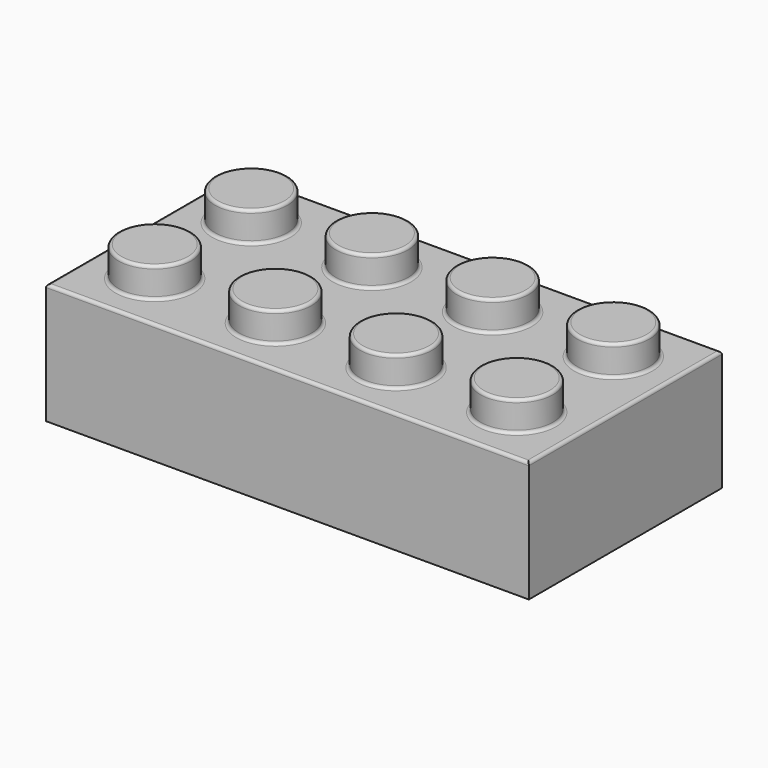
from build123d import *

# Parameters (mm, degrees)
F0_W     = 160
F0_H     = 80
F1_DEPTH = 40
F2_W     = 144
F2_H     = 64
F3_DEPTH = 30
F4_R     = 12
F5_DEPTH = 10
F6_R     = 1


with BuildPart() as f1:
    # F0 (on Top) → F1 (new body)
    with BuildSketch(Plane.XY):
        with Locations((-1.328124, -3.203125)):
            Rectangle(F0_W, F0_H)
    extrude(amount=F1_DEPTH)

    # F2 (on face) → F3 (cut)
    with BuildSketch(Plane(origin=(0, 0, 0), x_dir=(1, 0, 0), z_dir=(0, 0, -1))):
        with Locations((-1.328124, 3.203125)):
            Rectangle(F2_W, F2_H)
    extrude(amount=-F3_DEPTH, mode=Mode.SUBTRACT)

    # F4 (on face) → F5 (join)
    with BuildSketch(Plane.XY.offset(40)):
        with Locations((-61.328124, 16.796875)):
            Circle(F4_R)
        with Locations((-61.328124, -23.203125)):
            Circle(F4_R)
        with Locations((-21.328124, 16.796875)):
            Circle(F4_R)
        with Locations((-21.328124, -23.203125)):
            Circle(F4_R)
        with Locations((18.671876, 16.796875)):
            Circle(F4_R)
        with Locations((18.671876, -23.203125)):
            Circle(F4_R)
        with Locations((58.671876, 16.796875)):
            Circle(F4_R)
        with Locations((58.671876, -23.203125)):
            Circle(F4_R)
    extrude(amount=F5_DEPTH)

    # F6
    f6_edges = [f1.edges().sort_by_distance(p)[0] for p in [
        (-73.328124, 16.796875, 50),
        (-33.328124, 16.796875, 50),
        (6.671876, 16.796875, 50),
        (46.671876, 16.796875, 50),
        (46.671876, -23.203125, 50),
        (6.671876, -23.203125, 50),
        (-33.328124, -23.203125, 50),
        (-73.328124, -23.203125, 50),
        (-1.328124, 36.796875, 40),
        (78.671876, -3.203125, 40),
        (-81.328124, -3.203125, 40),
        (-1.328124, -43.203125, 40),
        (-73.328124, -23.203125, 40),
        (-33.328124, -23.203125, 40),
        (6.671876, -23.203125, 40),
        (46.671876, -23.203125, 40),
        (-73.328124, 16.796875, 40),
        (-33.328124, 16.796875, 40),
        (6.671876, 16.796875, 40),
        (46.671876, 16.796875, 40),
    ]]
    fillet(f6_edges, radius=F6_R)


solid = f1.part
